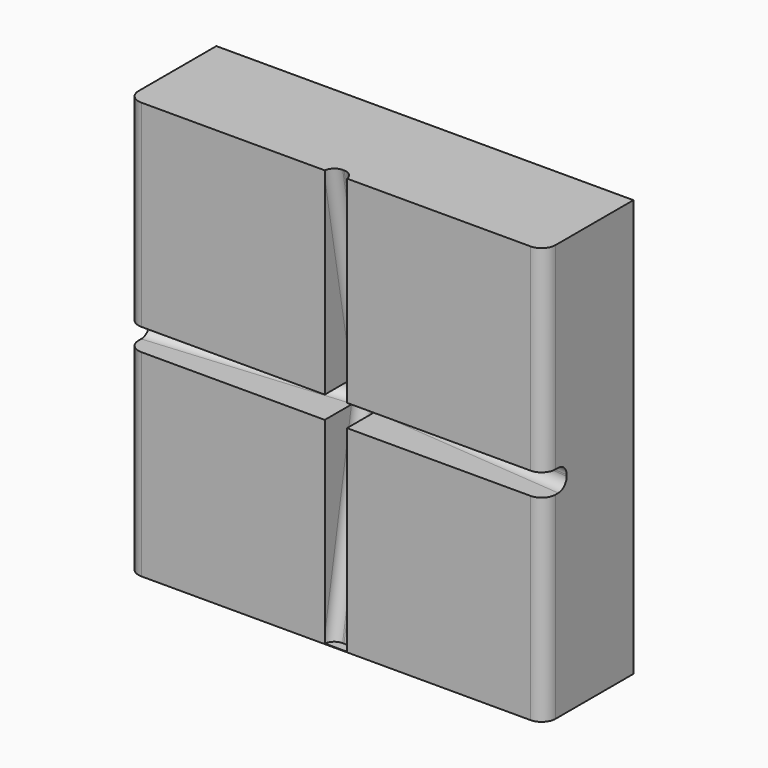
from build123d import *

# Parameters (mm, degrees)
PAD001_DEPTH = 1.6
FILLET001_R  = 0.75
PAD_DEPTH    = 1.6
FILLET_R     = 0.75
BOX_W        = 30
BOX_H        = 8
BOX_DEPTH    = 30
FILLET002_R  = 1
FILLET003_R  = 1
FILLET004_R  = 1
FILLET005_R  = 1


with BuildPart() as fillet001:
    # Sketch001 → Pad001 (new body)
    with BuildSketch(Plane(origin=(0, 0, 0.8), x_dir=(0, 1, 0), z_dir=(1, 0, 0))):
        Polygon((11.3125, 0.040257), (8.667595, -14.959743), (0.040255, -14.959743), (0.040255, 15.040257), (8.667595, 15.040257), align=None)
    extrude(amount=PAD001_DEPTH)

    # Fillet001
    fillet001_edges = [fillet001.edges().sort_by_distance(p)[0] for p in [
        (1.6, 9.990048, 8.340257),
        (0, 9.990048, 8.340257),
        (1.6, 9.990048, -6.659743),
        (0, 9.990048, -6.659743),
    ]]
    fillet(fillet001_edges, radius=FILLET001_R)


with BuildPart() as fusion:
    # Sketch → Pad (new body)
    with BuildSketch(Plane(origin=(0.8, 0, 0), x_dir=(1, 0, 0), z_dir=(0, 0, 1))):
        Polygon((-15, 0), (15, 0), (15, 10), (0, 11.304791), (-15, 10), align=None)
    extrude(amount=PAD_DEPTH)

    # Fillet
    fillet_edges = [fusion.edges().sort_by_distance(p)[0] for p in [
        (8.3, 10.652395, 0),
        (8.3, 10.652395, 1.6),
        (-6.7, 10.652396, 1.6),
        (-6.7, 10.652396, 0),
    ]]
    fillet(fillet_edges, radius=FILLET_R)

    # Fusion: union Fillet001
    add(fillet001.part)


with BuildPart() as fillet005:
    # Box → Box (new body)
    with BuildSketch(Plane(origin=(-14.2, 8, -14.2), x_dir=(1, 0, 0), z_dir=(0, 0, 1))):
        with Locations((15, 4)):
            Rectangle(BOX_W, BOX_H)
    extrude(amount=BOX_DEPTH)

    # Cut: cut Fusion
    add(fusion.part, mode=Mode.SUBTRACT)

    # Fillet002
    fillet002_edges = [fillet005.edges().sort_by_distance(p)[0] for p in [
        (15.8, 8, -7.1),
    ]]
    fillet(fillet002_edges, radius=FILLET002_R)

    # Fillet003
    fillet003_edges = [fillet005.edges().sort_by_distance(p)[0] for p in [
        (15.8, 8, 8.7),
    ]]
    fillet(fillet003_edges, radius=FILLET003_R)

    # Fillet004
    fillet004_edges = [fillet005.edges().sort_by_distance(p)[0] for p in [
        (-14.2, 8, -7.1),
    ]]
    fillet(fillet004_edges, radius=FILLET004_R)

    # Fillet005
    fillet005_edges = [fillet005.edges().sort_by_distance(p)[0] for p in [
        (-14.2, 8, 8.7),
    ]]
    fillet(fillet005_edges, radius=FILLET005_R)


solid = fillet005.part
